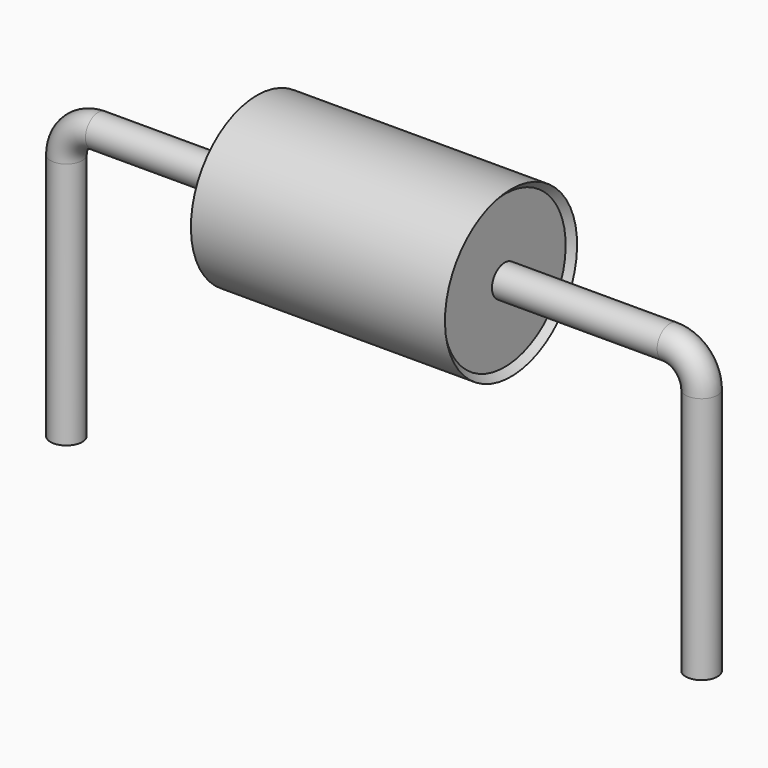
from build123d import *

# Parameters (mm, degrees)
SKETCH_R = 0.25


with BuildPart() as sweep_body:
    # Sweep: sweep along a path in Sketch001
    with BuildLine(Plane.XZ) as sweep_path:
        Line((0, -3), (0, 0.9))
        ThreePointArc((0, 0.9), (0.146449, 1.253556), (0.500008, 1.4))
        Line((0.500008, 1.4), (9.5, 1.4))
        ThreePointArc((9.5, 1.4), (9.853553, 1.253553), (10, 0.9))
        Line((10, 0.9), (10, -3))
    # Sketch → Sweep (sweep)
    with BuildSketch(Plane.XY.offset(-2)):
        Circle(SKETCH_R)
    sweep(path=sweep_path.line)


with BuildPart() as revolution:
    # Sketch002 → Revolution (revolve)
    with BuildSketch(Plane.XZ):
        Polygon((3, 2.7), (7, 2.7), (6.9, 2.6), (6.9, 1.4), (3.1, 1.4), (3.1, 2.6), align=None)
    revolve(axis=Axis((7.611803, 0, 1.4), (1, 0, 0)))


solid = Compound([sweep_body.part, revolution.part])
